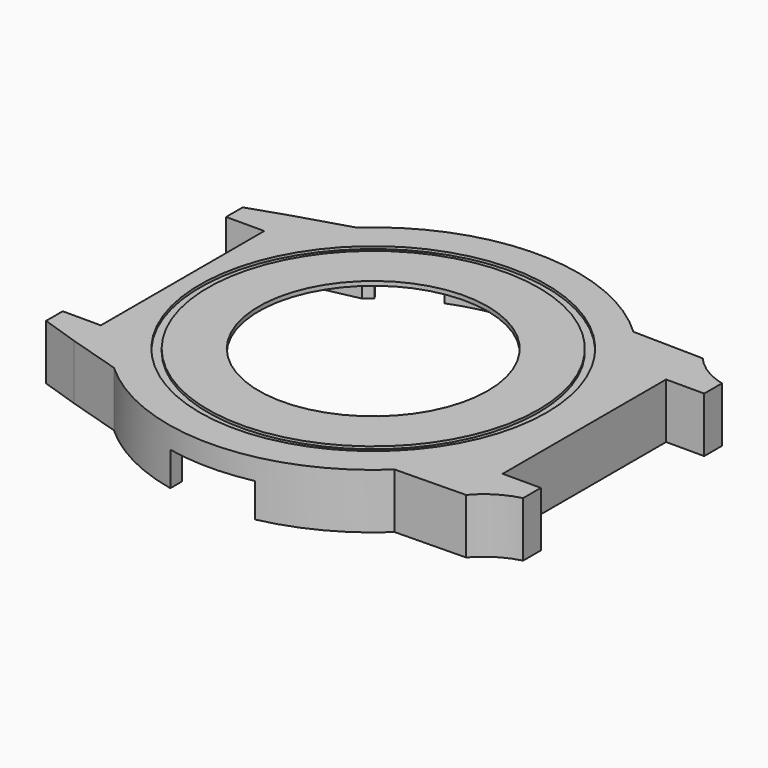
from build123d import *

# Parameters (mm, degrees)
PAD_DEPTH       = 6.5
POCKET_DEPTH    = 6
SKETCH002_R     = 13.5
POCKET001_DEPTH = 1
SKETCH003_W     = 5.4
SKETCH003_H     = 6.5
PAD001_DEPTH    = 4.5
POCKET002_DEPTH = 10
SKETCH010_W     = 3.95
SKETCH010_H     = 6.5
PAD002_DEPTH    = 4.5
POCKET005_DEPTH = 10
SKETCH012_R     = 0.6
POCKET006_DEPTH = 2
SKETCH014_R     = 20.45
SKETCH014_R_2   = 19.5
POCKET008_DEPTH = 0.3
SKETCH015_R     = 2.2
SKETCH015_R_2   = 0.975
PAD003_DEPTH    = 2
POCKET009_DEPTH = 4
POCKET010_DEPTH = 4


with BuildPart() as part:
    # Sketch → Pad (new body)
    with BuildSketch(Plane.XY):
        with BuildLine():
            Line((-22.5019915649, 16), (-22.5019915649, -16))
            Line((-22.5019915649, -16), (-16.2858834577, -17.9000000001))
            ThreePointArc((-16.2858834577, -17.9000000001), (0.2206895737, -24.1989937004), (16.6096357576, -17.5999999999))
            Line((16.6096357576, -17.5999999999), (24.9082802252, -17.45))
            Line((24.9082802252, 17.45), (24.9082802252, -17.45))
            Line((16.6096357576, 17.6), (24.9082802252, 17.45))
            ThreePointArc((16.6096357576, 17.6), (0.2206895736, 24.1989937004), (-16.2858834578, 17.9))
            Line((-22.5019915649, 16), (-16.2858834578, 17.9))
        make_face()
    extrude(amount=PAD_DEPTH)

    # Sketch001 → Pocket (cut)
    with BuildSketch(Plane.XY):
        with BuildLine():
            Line((-14.8539557021, 16.9), (-21.2122180433, 15.55))
            Line((-21.2122180433, 15.55), (-21.2122180433, -15.55))
            Line((-21.2122180433, -15.55), (-14.8539557021, -16.9))
            ThreePointArc((-14.8539557021, -16.9), (-0.0760301383, -22.4998715423), (14.739402973, -17))
            Line((14.739402973, -17), (23.6191552218, -16.4))
            Line((23.6191552218, 16.4), (23.6191552218, -16.4))
            Line((14.739402973, 17), (23.6191552218, 16.4))
            ThreePointArc((14.739402973, 17), (-0.0760301383, 22.4998715423), (-14.8539557021, 16.9))
        make_face()
    extrude(amount=POCKET_DEPTH, mode=Mode.SUBTRACT)

    # Sketch002 (on Face19 of Pocket) → Pocket001 (cut)
    with BuildSketch(Plane(origin=(0, 0, 6), x_dir=(1, 0, 0), z_dir=(0, 0, -1))):
        Circle(SKETCH002_R)
    extrude(amount=-POCKET001_DEPTH, mode=Mode.SUBTRACT)

    # Sketch003 (on Face7 of Pad) → Pad001 (join)
    with BuildSketch(Plane.YZ.offset(24.9082802252)):
        with Locations((-14.75, 3.25)):
            Rectangle(SKETCH003_W, SKETCH003_H)
        with Locations((14.75, 3.25)):
            Rectangle(SKETCH003_W, SKETCH003_H)
    extrude(amount=PAD001_DEPTH)

    # Sketch006 (on Face22 of Pad001) → Pocket002 (cut)
    with BuildSketch(Plane.XY.offset(6.5)):
        with BuildLine():
            ThreePointArc((24.9082802252, 17.45), (26.9423471239, 15.7065020586), (29.4082802252, 14.6594169811))
            Line((29.4082802252, 17.45), (29.4082802252, 14.6594169811))
            Line((29.4082802252, 17.45), (24.9082802252, 17.45))
        make_face()
        with BuildLine():
            ThreePointArc((29.4082802252, -14.6594169811), (26.9423471239, -15.7065020586), (24.9082802252, -17.45))
            Line((29.4082802252, -17.45), (24.9082802252, -17.45))
            Line((29.4082802252, -14.6594169811), (29.4082802252, -17.45))
        make_face()
    extrude(amount=-POCKET002_DEPTH, mode=Mode.SUBTRACT)

    # Sketch010 (on Face3 of Pad) → Pad002 (join)
    with BuildSketch(Plane(origin=(-22.5019915649, 0, 0), x_dir=(0, -1, 0), z_dir=(-1, 0, 0))):
        with Locations((-14.025, 3.25)):
            Rectangle(SKETCH010_W, SKETCH010_H)
        with Locations((14.025, 3.25)):
            Rectangle(SKETCH010_W, SKETCH010_H)
    extrude(amount=PAD002_DEPTH)

    # Sketch011 (on Face28 of Pad002) → Pocket005 (cut)
    with BuildSketch(Plane.XY.offset(6.5)):
        Polygon((-27.0019915649, 16), (-22.5019915649, 16), (-27.0019915649, 14.5), align=None)
        Polygon((-22.5019915649, -16), (-27.0019915649, -14.5), (-27.0019915649, -16), align=None)
    extrude(amount=-POCKET005_DEPTH, mode=Mode.SUBTRACT)

    # Sketch012 (on Face23 of Pocket005) → Pocket006 (cut)
    with BuildSketch(Plane(origin=(23.6191552218, 0, 0), x_dir=(0, -1, 0), z_dir=(-1, 0, 0))):
        with Locations((12.9594169811, 8.2)):
            Circle(SKETCH012_R)
    extrude(amount=-POCKET006_DEPTH, mode=Mode.SUBTRACT)

    # Sketch014 (on Face10 of Pad) → Pocket008 (cut)
    with BuildSketch(Plane.XY.offset(6.5)):
        Circle(SKETCH014_R)
        Circle(SKETCH014_R_2, mode=Mode.SUBTRACT)
    extrude(amount=-POCKET008_DEPTH, mode=Mode.SUBTRACT)

    # Sketch015 (on Face19 of Pocket) → Pad003 (join)
    with BuildSketch(Plane(origin=(0, 0, 6), x_dir=(1, 0, 0), z_dir=(0, 0, -1))):
        with Locations((-18.42, 13.32)):
            Circle(SKETCH015_R)
        with Locations((-18.42, 13.32)):
            Circle(SKETCH015_R_2, mode=Mode.SUBTRACT)
        with Locations((7.27, 18.56)):
            Circle(SKETCH015_R)
        with Locations((7.27, 18.56)):
            Circle(SKETCH015_R_2, mode=Mode.SUBTRACT)
        with Locations((5.37, -19.79)):
            Circle(SKETCH015_R)
        with Locations((5.37, -19.79)):
            Circle(SKETCH015_R_2, mode=Mode.SUBTRACT)
        with Locations((-18.42, -13.32)):
            Circle(SKETCH015_R)
        with Locations((-18.42, -13.32)):
            Circle(SKETCH015_R_2, mode=Mode.SUBTRACT)
    extrude(amount=PAD003_DEPTH)

    # Sketch016 → Pocket009 (cut)
    with BuildSketch(Plane(origin=(0, 0, 0), x_dir=(-1, 0, 0), z_dir=(0, 0, 1))):
        with BuildLine():
            Line((-5, 23.6778377391), (-5, 21.9374109685))
            ThreePointArc((5, 21.9374109685), (0, 22.5), (-5, 21.9374109685))
            Line((5, 23.6778377391), (5, 21.9374109685))
            ThreePointArc((5, 23.6778377391), (0, 24.2), (-5, 23.6778377391))
        make_face()
    extrude(amount=POCKET009_DEPTH, mode=Mode.SUBTRACT)

    # Sketch017 → Pocket010 (cut)
    with BuildSketch(Plane(origin=(0, 0, 0), x_dir=(-1, 0, 0), z_dir=(0, 0, 1))):
        with BuildLine():
            Line((-3.499984119, -22.2261132717), (-3.5, -23.9455632634))
            ThreePointArc((-3.5, -23.9455632634), (0, -24.2000019575), (3.5, -23.9455632634))
            Line((3.5000158811, -22.2261082701), (3.5, -23.9455632634))
            ThreePointArc((-3.499984119, -22.2261132717), (1.60767e-05, -22.5), (3.5000158811, -22.2261082701))
        make_face()
        with BuildLine():
            ThreePointArc((-13.9498796389, -17.6536358312), (-11.25, -19.4855715851), (-8.3135572795, -20.9077680626))
            Line((-8.3135572795, -20.9077680626), (-8.9416927184, -22.487466094))
            ThreePointArc((-15.0038705449, -18.987466094), (-12.1, -20.9578147716), (-8.9416927184, -22.487466094))
            Line((-13.9498796389, -17.6536358312), (-15.0038705449, -18.987466094))
        make_face()
        with BuildLine():
            ThreePointArc((8.3135572795, -20.9077680626), (11.25, -19.4855715851), (13.9498796389, -17.6536358312))
            Line((13.9498796389, -17.6536358312), (15.0038705449, -18.987466094))
            ThreePointArc((8.9416927184, -22.487466094), (12.1, -20.9578147716), (15.0038705449, -18.987466094))
            Line((8.3135572795, -20.9077680626), (8.9416927184, -22.487466094))
        make_face()
    extrude(amount=POCKET010_DEPTH, mode=Mode.SUBTRACT)


solid = part.part
